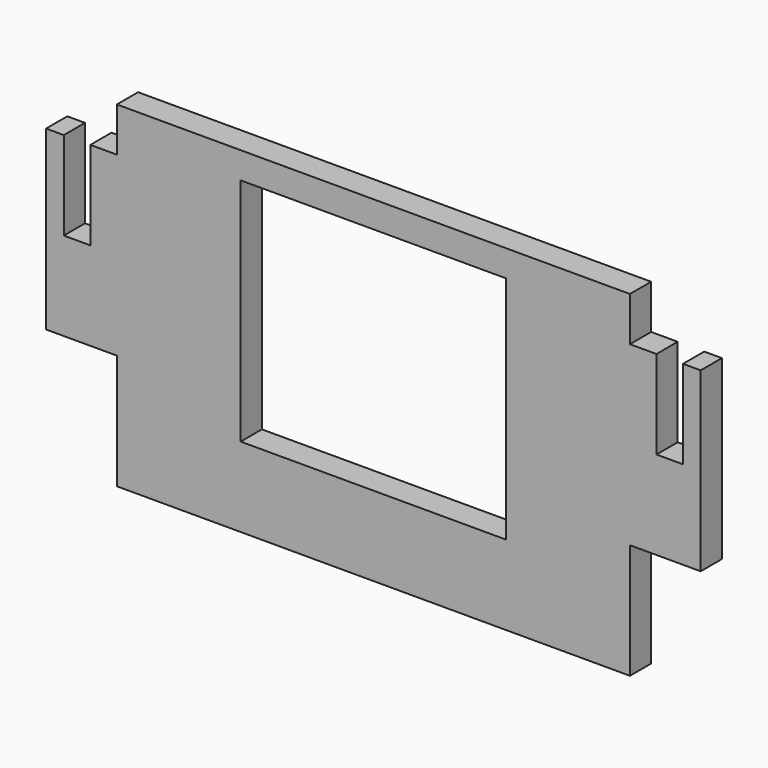
from build123d import *

# Parameters (mm, degrees)
F0_W     = 30
F0_H     = 26
F1_DEPTH = 1.5


with BuildPart() as f1:
    # F0 (on Front) → F1 (new body, symmetric)
    with BuildSketch(Plane.XZ):
        Polygon((29, 28), (-29, 28), (-29, 23), (-32, 23), (-32, 13), (-35, 13), (-35, 23), (-37, 23), (-37, 3), (-29, 3), (-29, -10), (29, -10), (29, 3), (37, 3), (37, 23), (35, 23), (35, 13), (32, 13), (32, 23), (29, 23), align=None)
        with Locations((0, 12)):
            Rectangle(F0_W, F0_H, mode=Mode.SUBTRACT)
    extrude(amount=F1_DEPTH, both=True)


solid = f1.part
